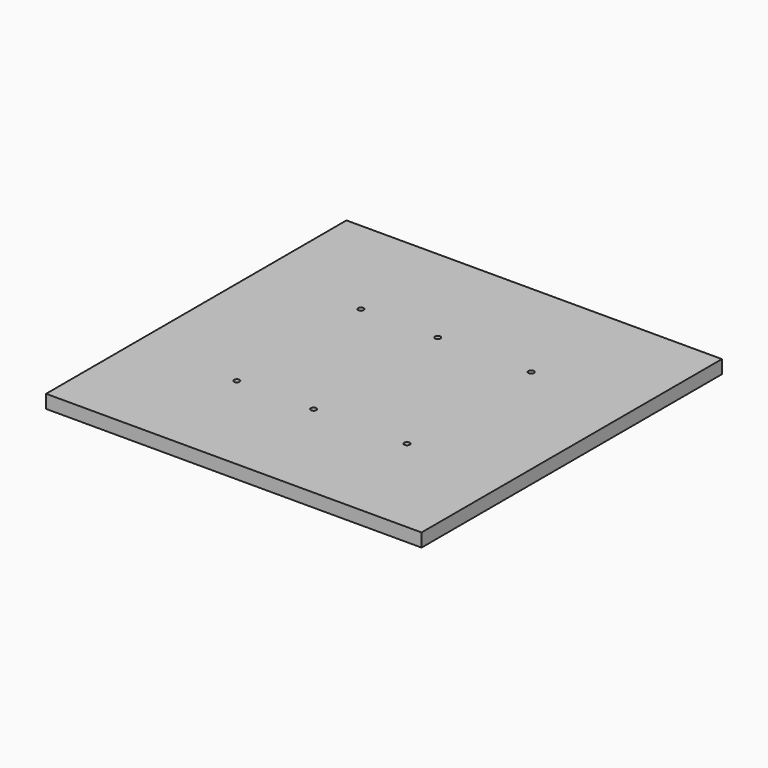
from build123d import *

# Parameters (mm, degrees)
F0_W           = 450
F0_H           = 450
F1_DEPTH       = 16
F3_D           = 6.6
F3_CBORE_D     = 11.25
F3_CBORE_DEPTH = 6


with BuildPart() as f1:
    # F0 (on Top) → F1 (new body)
    with BuildSketch(Plane.XY):
        Rectangle(F0_W, F0_H)
    extrude(amount=F1_DEPTH)

    # F3 (through all)
    with Locations(Plane(origin=(0, 0, 0), x_dir=(1, 0, 0), z_dir=(0, 0, -1))):
        with Locations((-102, -93), (-102, 93), (-10, 93), (-10, -93), (102, -93), (102, 93)):
            CounterBoreHole(F3_D / 2, F3_CBORE_D / 2, F3_CBORE_DEPTH)


solid = f1.part
